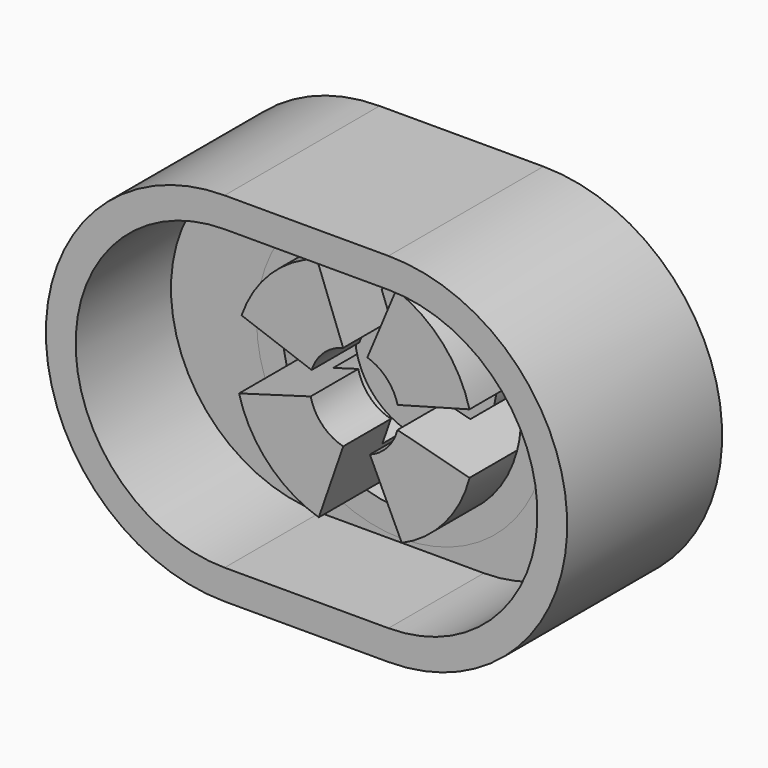
from build123d import *

# Parameters (mm, degrees)
F1_DEPTH = 2.6
F0_R     = 1.95
F0_R_2   = 0.95
F2_DEPTH = 1
F3_DEPTH = 0.6
F5_DEPTH = 0.4
F4_R     = 1.6
F4_R_2   = 0.95
F4_R_3   = 0.6
F6_DEPTH = 0.8
F8_DEPTH = 1.5
F9_DEPTH = 1.5


with BuildPart() as f1:
    # F0 (on Front) → F1 (new body)
    with BuildSketch(Plane.XZ):
        with BuildLine():
            Line((2.2, 0), (0, 0))
            ThreePointArc((0, 0), (-2.4, -2.4), (0, -4.8))
            Line((0, -4.8), (2.2, -4.8))
            ThreePointArc((2.2, -4.8), (4.6, -2.4), (2.2, 0))
        make_face()
        with BuildLine():
            Line((2.2, -4.4), (0, -4.4))
            ThreePointArc((0, -4.4), (-2, -2.4), (0, -0.4))
            Line((0, -0.4), (2.2, -0.4))
            ThreePointArc((2.2, -0.4), (4.2, -2.4), (2.2, -4.4))
        make_face(mode=Mode.SUBTRACT)
    extrude(amount=F1_DEPTH)


with BuildPart() as f2:
    # F0 (on Front) → F2 (new body)
    with BuildSketch(Plane.XZ):
        with Locations((1.1, -2.4)):
            Circle(F0_R)
        with Locations((1.1, -2.4)):
            Circle(F0_R_2, mode=Mode.SUBTRACT)
    extrude(amount=F2_DEPTH)

    # F4 (on face) → F6 (join)
    with BuildSketch(Plane.XZ.offset(1)):
        with Locations((1.1, -2.4)):
            Circle(F4_R)
        with Locations((1.1, -2.4)):
            Circle(F4_R_2, mode=Mode.SUBTRACT)
        with Locations((1.1, -2.4)):
            Circle(F4_R_2)
        with Locations((1.1, -2.4)):
            Circle(F4_R_3, mode=Mode.SUBTRACT)
    extrude(amount=F6_DEPTH)

    # F7 (on face) → F8 (cut)
    with BuildSketch(Plane.XZ.offset(1.8)):
        with BuildLine():
            ThreePointArc((0.9512789374, -1.8187237786), (1.1142826352, -1.8001700188), (1.2762185296, -1.8264609605))
            Line((1.2762185296, -1.8264609605), (1.663423831, -0.9024841949))
            ThreePointArc((1.663423831, -0.9024841949), (1.1328728178, -0.8003377301), (0.5985732983, -0.8806016774))
            Line((0.5985732983, -0.8806016774), (0.9512789374, -1.8187237786))
        make_face()
        with BuildLine():
            Line((1.738665985, -3.8670057122), (1.3106189327, -2.961818178))
            ThreePointArc((1.3106189327, -2.961818178), (1.133144808, -2.9990838186), (0.9526429242, -2.9816234969))
            Line((0.9526429242, -2.9816234969), (0.6245447307, -3.9277245455))
            ThreePointArc((0.6245447307, -3.9277245455), (1.1870696767, -3.9976291408), (1.738665985, -3.8670057122))
        make_face()
    extrude(amount=-F8_DEPTH, mode=Mode.SUBTRACT)

    # F7 (on face) → F9 (cut)
    with BuildSketch(Plane.XZ.offset(1.8)):
        with BuildLine():
            ThreePointArc((0.5151749967, -2.5340884617), (0.5005219017, -2.3749798148), (0.5283822526, -2.2176455352))
            Line((0.5283822526, -2.2176455352), (-0.4122298327, -1.8773519989))
            ThreePointArc((-0.4122298327, -1.8773519989), (-0.4989300226, -2.3414954455), (-0.4463821063, -2.8107339546))
            Line((-0.4463821063, -2.8107339546), (0.5151749967, -2.5340884617))
        make_face()
        with BuildLine():
            Line((2.6474359222, -1.9932542973), (1.682096615, -2.2545230917))
            ThreePointArc((1.682096615, -2.2545230917), (1.6955073337, -2.3267127875), (1.7, -2.4))
            ThreePointArc((1.7, -2.4), (1.6951779147, -2.4759160708), (1.6807891673, -2.5506118956))
            Line((1.6807891673, -2.5506118956), (2.6487711129, -2.8016317217))
            ThreePointArc((2.6487711129, -2.8016317217), (2.687141106, -2.6024428554), (2.7, -2.4))
            ThreePointArc((2.7, -2.4), (2.6868045682, -2.1949359558), (2.6474359222, -1.9932542973))
        make_face()
    extrude(amount=-F9_DEPTH, mode=Mode.SUBTRACT)


with BuildPart() as f3:
    # F0 (on Front) → F3 (new body)
    with BuildSketch(Plane.XZ):
        with BuildLine():
            ThreePointArc((0, -0.4), (-2, -2.4), (0, -4.4))
            Line((0, -4.4), (2.2, -4.4))
            ThreePointArc((2.2, -4.4), (4.2, -2.4), (2.2, -0.4))
            Line((2.2, -0.4), (0, -0.4))
        make_face()
        with Locations((1.1, -2.4)):
            Circle(F0_R, mode=Mode.SUBTRACT)
    extrude(amount=F3_DEPTH)


with BuildPart() as f3b:
    # F0 (on Front) → F3, piece 2 (new body)
    with BuildSketch(Plane.XZ):
        with Locations((1.1, -2.4)):
            Circle(F0_R_2)
    extrude(amount=F3_DEPTH)


with BuildPart() as f5:
    # F5 (new): a face of the model
    f5_faces = [f3.part.faces().sort_by_distance(p)[0] for p in [
        (1.1, -0.6, -4.3926216533),
    ]]
    extrude(f5_faces, amount=F5_DEPTH)


solid = Compound([f1.part, f2.part, f3.part, f3b.part, f5.part])
